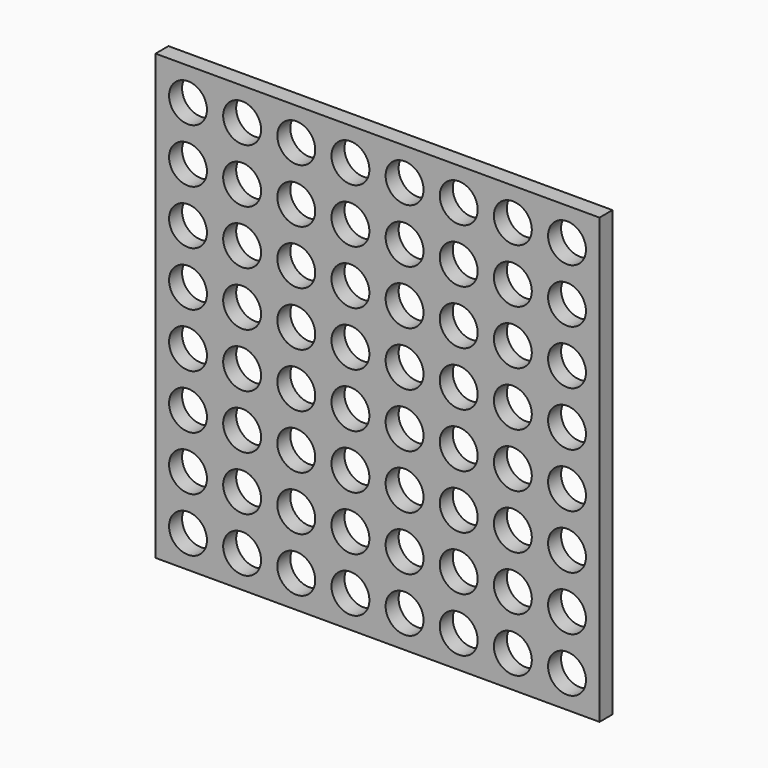
from build123d import *

# Parameters (mm, degrees)
SKETCH003_W                  = 82
SKETCH003_H                  = 82
PAD002_DEPTH                 = 3
SKETCH004_R                  = 3.5
POCKET_DEPTH                 = 3
SKETCH004_LINEARPATTERN_2_R  = 3.5
POCKET_LINEARPATTERN_2_DEPTH = 3
SKETCH004_LINEARPATTERN_3_R  = 3.5
POCKET_LINEARPATTERN_3_DEPTH = 3
SKETCH004_LINEARPATTERN_4_R  = 3.5
POCKET_LINEARPATTERN_4_DEPTH = 3
SKETCH004_LINEARPATTERN_5_R  = 3.5
POCKET_LINEARPATTERN_5_DEPTH = 3
SKETCH004_LINEARPATTERN_6_R  = 3.5
POCKET_LINEARPATTERN_6_DEPTH = 3
SKETCH004_LINEARPATTERN_7_R  = 3.5
POCKET_LINEARPATTERN_7_DEPTH = 3
SKETCH004_LINEARPATTERN_8_R  = 3.5
POCKET_LINEARPATTERN_8_DEPTH = 3
LINEARPATTERN001_COUNT       = 8
LINEARPATTERN001_PITCH       = 10


with BuildPart() as part:
    # Sketch003 → Pad002 (new body)
    with BuildSketch(Plane.XZ):
        Rectangle(SKETCH003_W, SKETCH003_H)
    extrude(amount=-PAD002_DEPTH)

    # Sketch004 → Pocket (cut)
    with BuildSketch(Plane.XZ):
        with Locations((-35, 34.963)):
            Circle(SKETCH004_R)
    pocket = extrude(amount=-POCKET_DEPTH, mode=Mode.SUBTRACT)

    # Sketch004 LinearPattern 2 → Pocket LinearPattern 2 (cut)
    with BuildSketch(Plane(origin=(10, 0, 0), x_dir=(1, 0, 0), z_dir=(0, -1, 0))):
        with Locations((-35, 34.963)):
            Circle(SKETCH004_LINEARPATTERN_2_R)
    pocket_linearpattern_2 = extrude(amount=-POCKET_LINEARPATTERN_2_DEPTH, mode=Mode.SUBTRACT)

    # Sketch004 LinearPattern 3 → Pocket LinearPattern 3 (cut)
    with BuildSketch(Plane(origin=(20, 0, 0), x_dir=(1, 0, 0), z_dir=(0, -1, 0))):
        with Locations((-35, 34.963)):
            Circle(SKETCH004_LINEARPATTERN_3_R)
    pocket_linearpattern_3 = extrude(amount=-POCKET_LINEARPATTERN_3_DEPTH, mode=Mode.SUBTRACT)

    # Sketch004 LinearPattern 4 → Pocket LinearPattern 4 (cut)
    with BuildSketch(Plane(origin=(30, 0, 0), x_dir=(1, 0, 0), z_dir=(0, -1, 0))):
        with Locations((-35, 34.963)):
            Circle(SKETCH004_LINEARPATTERN_4_R)
    pocket_linearpattern_4 = extrude(amount=-POCKET_LINEARPATTERN_4_DEPTH, mode=Mode.SUBTRACT)

    # Sketch004 LinearPattern 5 → Pocket LinearPattern 5 (cut)
    with BuildSketch(Plane(origin=(40, 0, 0), x_dir=(1, 0, 0), z_dir=(0, -1, 0))):
        with Locations((-35, 34.963)):
            Circle(SKETCH004_LINEARPATTERN_5_R)
    pocket_linearpattern_5 = extrude(amount=-POCKET_LINEARPATTERN_5_DEPTH, mode=Mode.SUBTRACT)

    # Sketch004 LinearPattern 6 → Pocket LinearPattern 6 (cut)
    with BuildSketch(Plane(origin=(50, 0, 0), x_dir=(1, 0, 0), z_dir=(0, -1, 0))):
        with Locations((-35, 34.963)):
            Circle(SKETCH004_LINEARPATTERN_6_R)
    pocket_linearpattern_6 = extrude(amount=-POCKET_LINEARPATTERN_6_DEPTH, mode=Mode.SUBTRACT)

    # Sketch004 LinearPattern 7 → Pocket LinearPattern 7 (cut)
    with BuildSketch(Plane(origin=(60, 0, 0), x_dir=(1, 0, 0), z_dir=(0, -1, 0))):
        with Locations((-35, 34.963)):
            Circle(SKETCH004_LINEARPATTERN_7_R)
    pocket_linearpattern_7 = extrude(amount=-POCKET_LINEARPATTERN_7_DEPTH, mode=Mode.SUBTRACT)

    # Sketch004 LinearPattern 8 → Pocket LinearPattern 8 (cut)
    with BuildSketch(Plane(origin=(70, 0, 0), x_dir=(1, 0, 0), z_dir=(0, -1, 0))):
        with Locations((-35, 34.963)):
            Circle(SKETCH004_LINEARPATTERN_8_R)
    pocket_linearpattern_8 = extrude(amount=-POCKET_LINEARPATTERN_8_DEPTH, mode=Mode.SUBTRACT)

    # LinearPattern001: Pocket, Pocket LinearPattern 2, Pocket LinearPattern 3, Pocket LinearPattern 4, Pocket LinearPattern 5, Pocket LinearPattern 6, Pocket LinearPattern 7, Pocket LinearPattern 8 ×8
    with Locations(*[(0, 0, -i * LINEARPATTERN001_PITCH) for i in range(1, LINEARPATTERN001_COUNT)]):
        add(pocket, mode=Mode.SUBTRACT)
        add(pocket_linearpattern_2, mode=Mode.SUBTRACT)
        add(pocket_linearpattern_3, mode=Mode.SUBTRACT)
        add(pocket_linearpattern_4, mode=Mode.SUBTRACT)
        add(pocket_linearpattern_5, mode=Mode.SUBTRACT)
        add(pocket_linearpattern_6, mode=Mode.SUBTRACT)
        add(pocket_linearpattern_7, mode=Mode.SUBTRACT)
        add(pocket_linearpattern_8, mode=Mode.SUBTRACT)


solid = part.part
